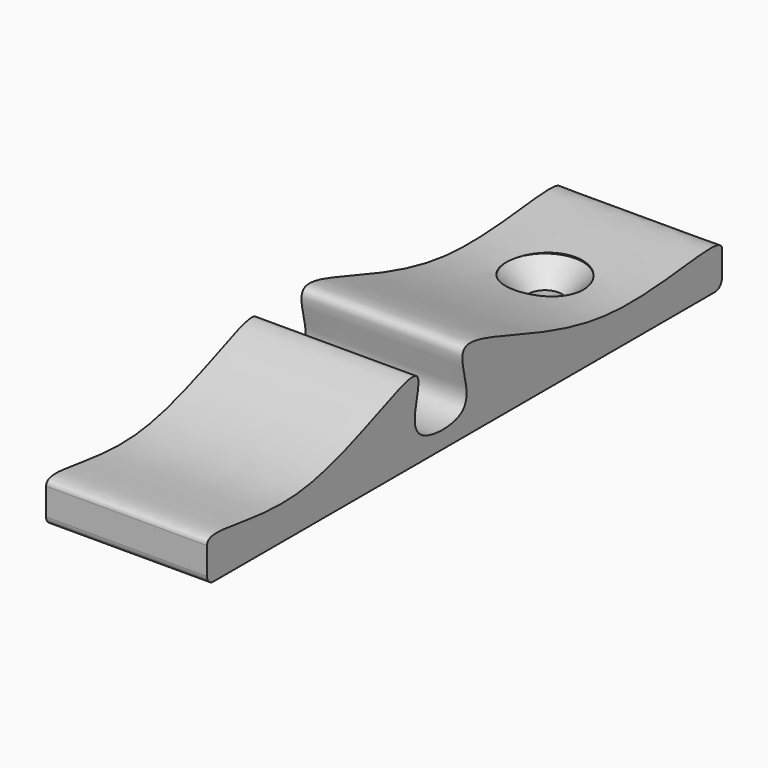
from build123d import *

# Parameters (mm, degrees)
F1_DEPTH       = 25.4
F3_D           = 5.3
F3_DEPTH       = 50.8
F3_START       = 1.3862898
F3_CSINK_D     = 12
F3_CSINK_ANGLE = 90
F3_TIP         = 1.5922806404


with BuildPart() as f1:
    # F0 (on Right) → F1 (new body)
    with BuildSketch(Plane.YZ):
        with BuildLine():
            ThreePointArc((-30.7555938594, -5.4387189925), (-30.3930059469, -6.3140836484), (-29.517641291, -6.6766715609))
            Line((-29.517641291, -6.6766715609), (69.464223925, -6.6766715609))
            ThreePointArc((69.464223925, -6.6766715609), (70.4401601289, -6.2724255492), (70.8444061406, -5.2964893453))
            Line((70.8444061406, -5.2964893453), (70.8444061406, -1.1509376742))
            add(Edge.make_bspline(
                [(-30.7555938594, -1.1509376742), (-30.6712389887, 1.5059464005), (-11.5040493156, -6.2840410326), (13.9691761151, 10.6352039949), (9.382925007, -0.3666844393), (11.6296193702, -4.1259435876), (19.7970863595, -4.2383847935), (21.0284762328, -0.1971839621), (16.5740968162, 10.8031434254), (46.5799818396, -6.4769732559), (70.622141746, 1.4044956286), (70.8444061406, -1.1509376742)],
                knots=[0, 0, 0, 0, 0.1393279371, 0.3006655479, 0.3779803251, 0.4424199674, 0.5282211455, 0.5902893874, 0.6675972709, 0.8427370718, 1, 1, 1, 1], degree=3))
            Line((-30.7555938594, -1.1509376742), (-30.7555938594, -5.4387189925))
        make_face()
    extrude(amount=F1_DEPTH)

    # F3
    # its depths count from where the whole tool has entered the part; down to there all is cleared
    with Locations(Plane.XY.offset(-F3_START)):
        with Locations((12.7, 51.7944061406)):
            CounterSinkHole(F3_D / 2, F3_CSINK_D / 2, depth=F3_DEPTH, counter_sink_angle=F3_CSINK_ANGLE)
            with Locations((0, 0, -(F3_DEPTH + F3_TIP / 2))):  # 118° drill point
                Cone(0, F3_D / 2, F3_TIP, mode=Mode.SUBTRACT)


solid = f1.part
